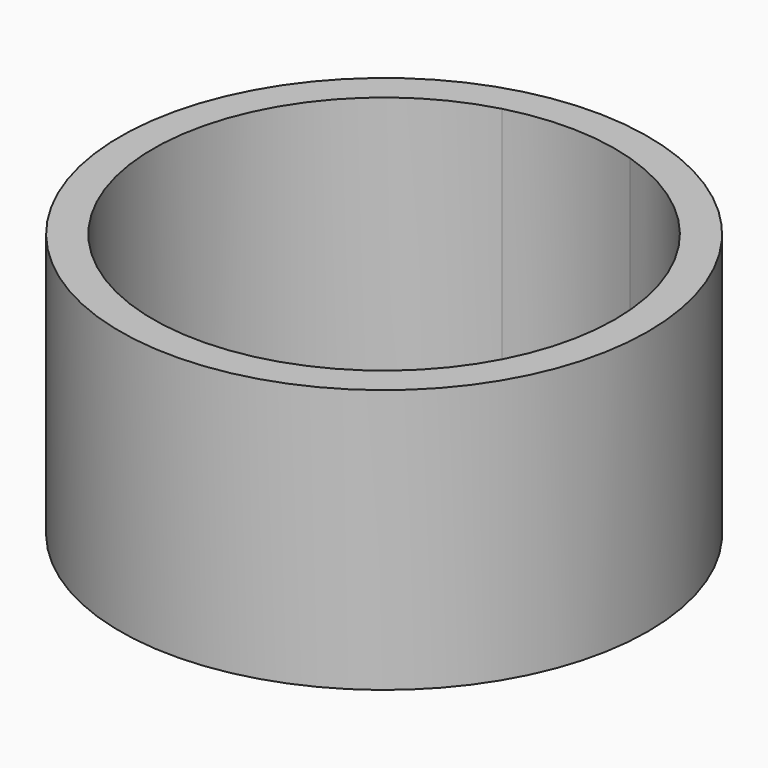
from build123d import *

# Parameters (mm, degrees)
F0_R     = 25.4
F1_DEPTH = 25.4


with BuildPart() as f1:
    # F0 (on Top) → F1 (new body)
    with BuildSketch(Plane.XY):
        Circle(F0_R)
        with BuildLine():
            ThreePointArc((6.728134, 21.184225), (17.938581, 13.124271), (22.226992, 0))
            ThreePointArc((22.226992, 0), (-13.496742, -17.660043), (-5.835925, 21.447171))
            ThreePointArc((-5.835925, 21.447171), (0.465074, 22.222126), (6.728134, 21.184225))
        make_face(mode=Mode.SUBTRACT)
    extrude(amount=F1_DEPTH)


solid = f1.part
